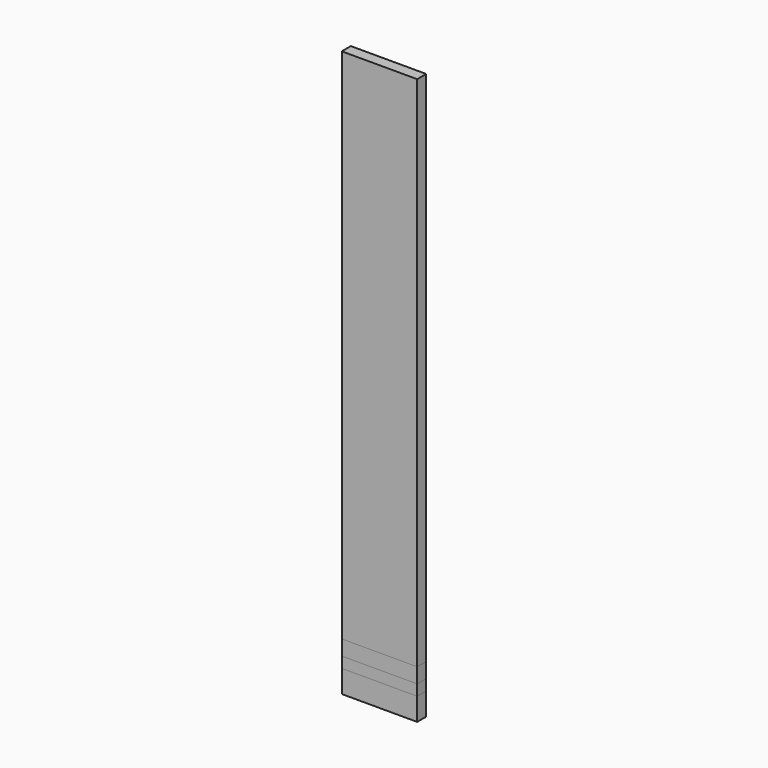
from build123d import *

# Parameters (mm, degrees)
F0_W     = 1000.00054
F0_H     = 299.9994
F1_DEPTH = 74.999977
F3_W     = 1000.00054
F3_H     = 149.999954
F4_DEPTH = 143.999966
F5_W     = 1000.00054
F5_H     = 149.999954
F6_DEPTH = 199.898
F7_W     = 1000.00054
F7_H     = 149.999954
F8_DEPTH = 6859.778


with BuildPart() as f1:
    # F0 (on Front) → F1 (new body, symmetric)
    with BuildSketch(Plane.XZ):
        Rectangle(F0_W, F0_H)
    extrude(amount=F1_DEPTH, both=True)


with BuildPart() as f4:
    # F3 (on offset) → F4 (new body)
    with BuildSketch(Plane.XY.offset(150.0124)):
        Rectangle(F3_W, F3_H)
    extrude(amount=F4_DEPTH)


with BuildPart() as f6:
    # F5 (on face) → F6 (new body)
    with BuildSketch(Plane.XY.offset(294.012366)):
        Rectangle(F5_W, F5_H)
    extrude(amount=F6_DEPTH)


with BuildPart() as f8:
    # F7 (on face) → F8 (new body)
    with BuildSketch(Plane.XY.offset(493.910366)):
        Rectangle(F7_W, F7_H)
    extrude(amount=F8_DEPTH)


solid = Compound([f1.part, f4.part, f6.part, f8.part])
